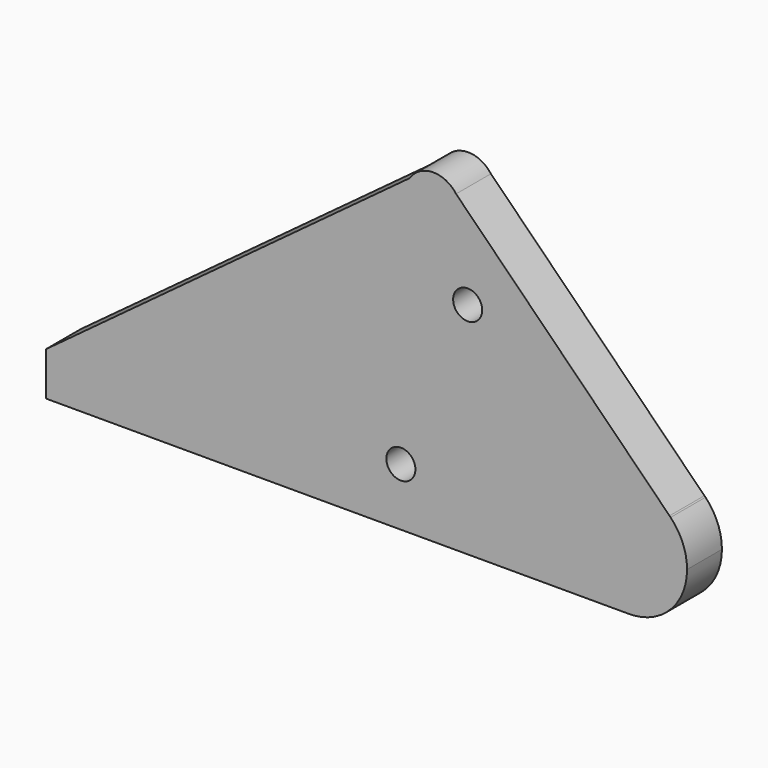
from build123d import *

# Parameters (mm, degrees)
F1_DEPTH = 19.05


with BuildPart() as f1:
    # F0 (on Front) → F1 (new body)
    with BuildSketch(Plane.XZ):
        with BuildLine():
            Line((113.547035, 18.312154), (20.207565, 111.83846))
            ThreePointArc((20.207565, 111.83846), (21.952168, 108.413993), (22.553312, 104.618043))
            ThreePointArc((22.553312, 104.618043), (6.747525, 92.847809), (0, 111.363538))
            Line((0, 111.363538), (-159.037881, -6.186257))
            Line((-159.037881, -6.186257), (-159.037881, -25.236257))
            Line((-159.037881, -25.236257), (94.955072, -25.236257))
            ThreePointArc((94.955072, -25.236257), (72.452371, 10.113642), (113.547035, 18.312154))
        make_face()
        with BuildLine():
            ThreePointArc((2.424053, 0.002768), (2.42405, -0.003481), (2.424041, -0.00973))
            ThreePointArc((2.424041, -0.00973), (-10.275944, 0.009017), (2.424053, 0.002768))
        make_face(mode=Mode.SUBTRACT)
        with BuildLine():
            ThreePointArc((20.120882, 74.508201), (27.224866, 76.854369), (31.632038, 70.808881))
            ThreePointArc((31.632038, 70.808881), (31.506941, 69.554654), (31.136578, 68.349845))
            ThreePointArc((31.136578, 68.349845), (30.759822, 67.596968), (30.286779, 66.900549))
            ThreePointArc((30.286779, 66.900549), (21.64081, 65.606578), (19.896414, 74.173038))
            ThreePointArc((19.896414, 74.173038), (20.005986, 74.342402), (20.120882, 74.508201))
        make_face(mode=Mode.SUBTRACT)
        with BuildLine():
            Line((114.011193, 17.847066), (113.547035, 18.312154))
            ThreePointArc((113.547035, 18.312154), (72.452371, 10.113642), (94.955072, -25.236257))
            ThreePointArc((94.955072, -25.236257), (113.459019, -18.111528), (121.200292, 0.143075))
            ThreePointArc((121.200292, 0.143075), (119.334471, 9.697059), (114.011193, 17.847066))
        make_face()
        with BuildLine():
            ThreePointArc((22.553312, 104.618043), (21.952168, 108.413993), (20.207565, 111.83846))
            ThreePointArc((20.207565, 111.83846), (9.979243, 116.900066), (0, 111.363538))
            ThreePointArc((0, 111.363538), (6.747525, 92.847809), (22.553312, 104.618043))
        make_face()
    extrude(amount=F1_DEPTH)


solid = f1.part
